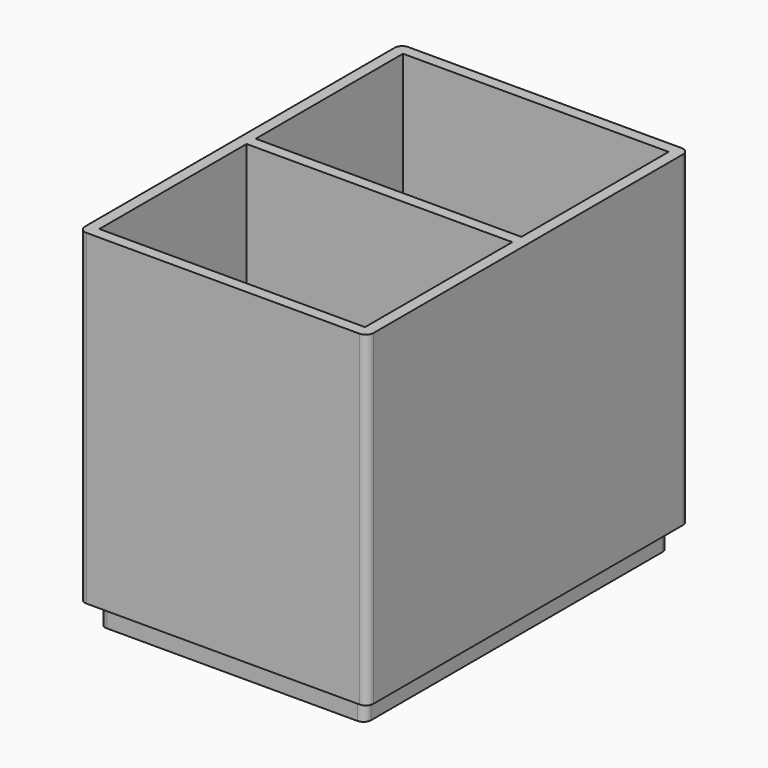
from build123d import *

# Parameters (mm, degrees)
F0_W     = 35
F0_H     = 50
F1_DEPTH = 3
F0_W_2   = 38
F0_H_2   = 53
F2_DEPTH = 1.6
F3_DEPTH = 43
F4_R     = 1
F5_W     = 35
F5_H     = 1.5
F6_DEPTH = 41.4


with BuildPart() as f1:
    # F0 (on Top) → F1 (new body)
    with BuildSketch(Plane.XY):
        with Locations((19, 26.5)):
            Rectangle(F0_W, F0_H)
    extrude(amount=-F1_DEPTH)

    # F0 (on Top) → F2 (join)
    with BuildSketch(Plane.XY):
        with Locations((19, 26.5)):
            Rectangle(F0_W_2, F0_H_2)
        with Locations((19, 26.5)):
            Rectangle(F0_W, F0_H, mode=Mode.SUBTRACT)
        with Locations((19, 26.5)):
            Rectangle(F0_W, F0_H)
    extrude(amount=F2_DEPTH)

    # F0 (on Top) → F3 (join)
    with BuildSketch(Plane.XY):
        with Locations((19, 26.5)):
            Rectangle(F0_W_2, F0_H_2)
        with Locations((19, 26.5)):
            Rectangle(F0_W, F0_H, mode=Mode.SUBTRACT)
    extrude(amount=F3_DEPTH)

    # F4
    f4_edges = [f1.edges().sort_by_distance(p)[0] for p in [
        (36.5, 1.5, -1.5),
        (1.5, 1.5, -1.5),
        (1.5, 51.5, -1.5),
        (36.5, 51.5, -1.5),
        (0, 53, 21.5),
        (38, 53, 21.5),
        (0, 0, 21.5),
        (38, 0, 21.5),
    ]]
    fillet(f4_edges, radius=F4_R)

    # F5 (on face) → F6 (join, through all)
    with BuildSketch(Plane.XY.offset(1.6)):
        with Locations((19, 26.5)):
            Rectangle(F5_W, F5_H)
    extrude(amount=F6_DEPTH)


solid = f1.part
